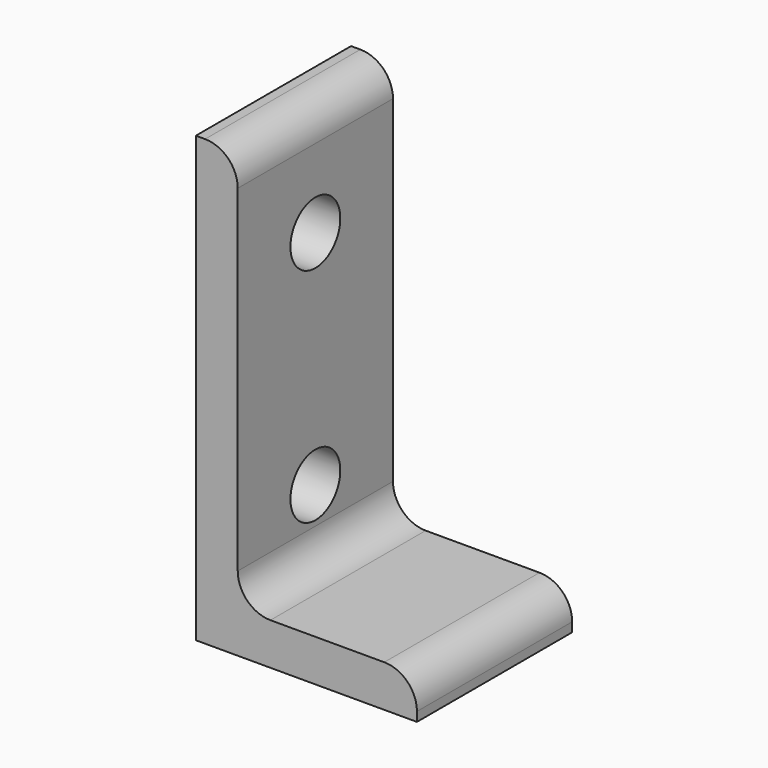
from build123d import *

# Parameters (mm, degrees)
F1_DEPTH = 22.225
F2_R     = 3.740582
F3_R     = 3.5687
F4_DEPTH = 4.8006


with BuildPart() as f1:
    # F0 (on Front) → F1 (new body)
    with BuildSketch(Plane.XZ):
        Polygon((4.8006, 34.427944), (0, 34.427944), (0, -16.448256), (25.3238, -16.448256), (25.3238, -11.647656), (4.8006, -11.647656), align=None)
    extrude(amount=F1_DEPTH)

    # F2
    f2_edges = [f1.edges().sort_by_distance(p)[0] for p in [
        (4.8006, -11.1125, 34.427944),
        (4.8006, -11.1125, -11.647656),
        (25.3238, -11.1125, -11.647656),
    ]]
    fillet(f2_edges, radius=F2_R)

    # F3 (on face) → F4 (cut)
    with BuildSketch(Plane(origin=(0, 0, 0), x_dir=(0, -1, 0), z_dir=(-1, 0, 0))):
        with Locations((11.1125, 21.689844)):
            Circle(F3_R)
        with Locations((11.1125, -3.735556)):
            Circle(F3_R)
    extrude(amount=-F4_DEPTH, mode=Mode.SUBTRACT)


solid = f1.part
